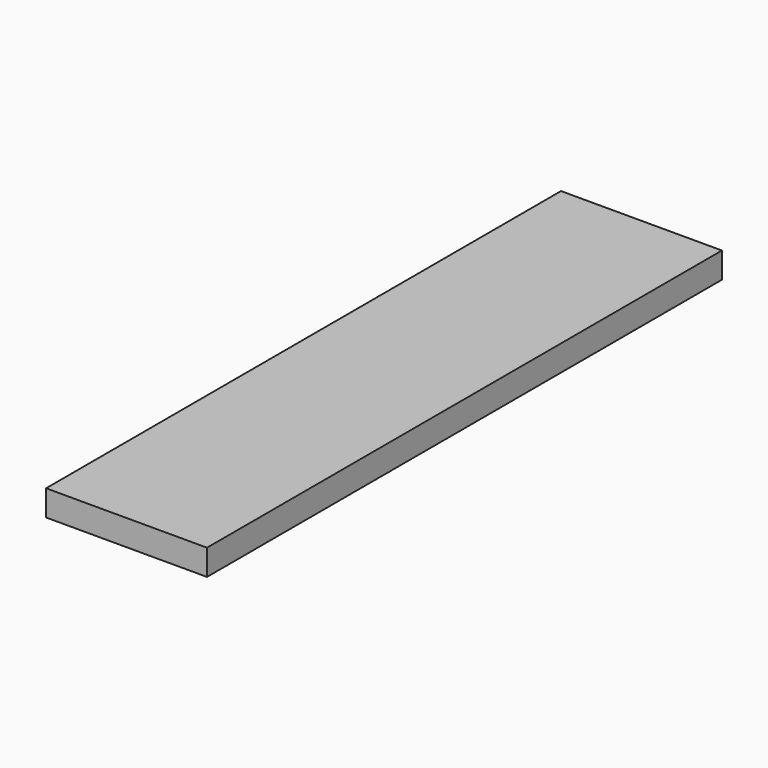
from build123d import *

# Parameters (mm, degrees)
F0_W     = 63.5
F0_H     = 254
F1_DEPTH = 2.54
F2_DEPTH = 5.08


with BuildPart() as f1:
    # F0 (on Top) → F1 (new body, symmetric)
    with BuildSketch(Plane.XY):
        Rectangle(F0_W, F0_H)
    extrude(amount=F1_DEPTH, both=True)

    # F2 (add): a face of the model
    f2_faces = [f1.faces().sort_by_distance(p)[0] for p in [
        (0, 0, 2.54),
    ]]
    extrude(f2_faces, amount=F2_DEPTH)


solid = f1.part
